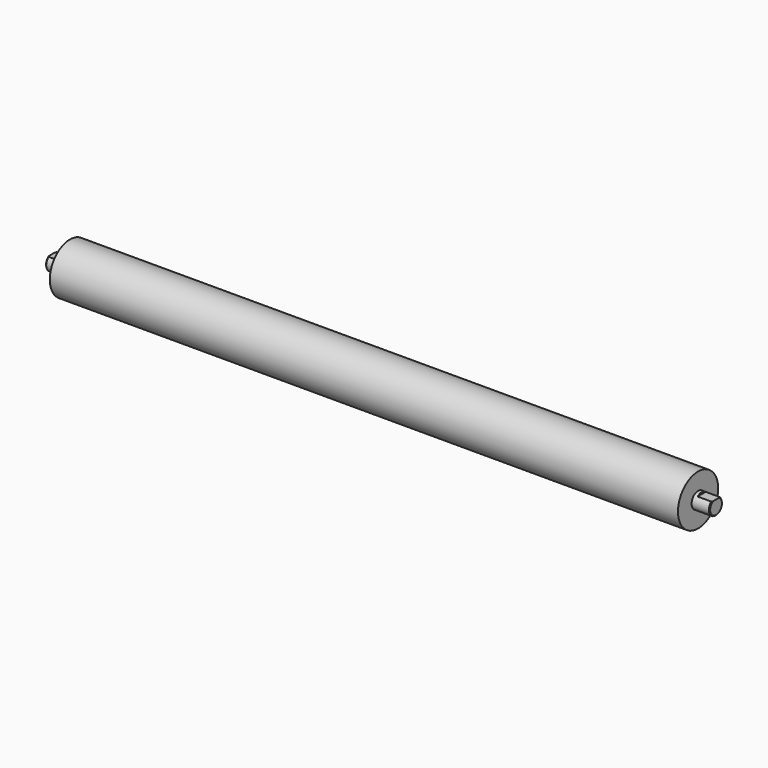
from build123d import *

# Parameters (mm, degrees)
F0_R     = 27.5
F1_DEPTH = 875
F2_R     = 22.5
F3_DEPTH = 50
F5_DEPTH = 40
F6_SIZE  = 2
F8_R     = 70
F9_DEPTH = 875


with BuildPart() as f1:
    # F0 (on Right) → F1 (new body, symmetric)
    with BuildSketch(Plane.YZ):
        Circle(F0_R)
    extrude(amount=F1_DEPTH, both=True)

    # F7: F3 across plane


with BuildPart() as f3:
    # F2 (on face) → F3 (new body)
    with BuildSketch(Plane.YZ.offset(875)):
        Circle(F2_R)
    extrude(amount=F3_DEPTH)

    # F4 (on face) → F5 (cut)
    with BuildSketch(Plane.YZ.offset(925)):
        with BuildLine():
            Line((-14.142136, 17.5), (14.142136, 17.5))
            ThreePointArc((14.142136, 17.5), (0, 22.5), (-14.142136, 17.5))
        make_face()
    extrude(amount=-F5_DEPTH, mode=Mode.SUBTRACT)

    # F6
    f6_edges = [f3.edges().sort_by_distance(p)[0] for p in [
        (925, -9.696699, -20.303301),
    ]]
    chamfer(f6_edges, length=F6_SIZE)


with BuildPart() as f1_1:
    add(f1.part)
    add(f3.part.mirror(Plane.YZ))


    add(f3.part)  # F9 merges F3
    # F8 (on Right) → F9 (join, symmetric)
    with BuildSketch(Plane.YZ):
        Circle(F8_R)
    extrude(amount=F9_DEPTH, both=True)


solid = f1_1.part
